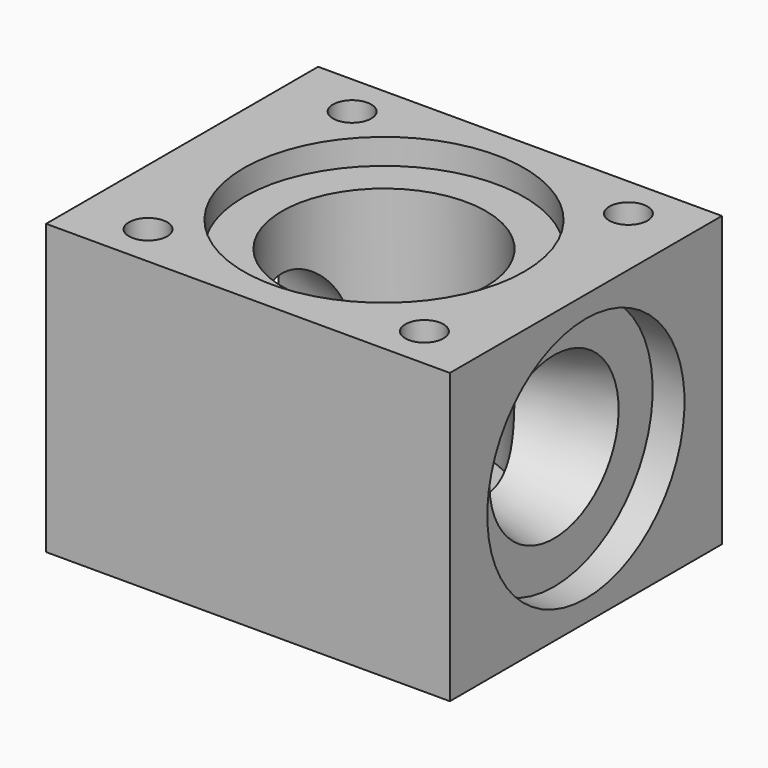
from build123d import *

# Parameters (mm, degrees)
F0_W     = 95
F0_H     = 80
F1_DEPTH = 34
F4_R     = 4.5
F5_DEPTH = 68
F4_R_2   = 24
F6_DEPTH = 57
F4_R_3   = 33
F7_DEPTH = 6


with BuildPart() as f1:
    # F0 (on Top) → F1 (new body, symmetric)
    with BuildSketch(Plane.XY):
        Rectangle(F0_W, F0_H)
    extrude(amount=F1_DEPTH, both=True)

    # F2 (on Front) → F3 (revolve, cut)
    with BuildSketch(Plane.XZ):
        Polygon((47.5, 0), (47.5, 29), (40, 29), (40, 19), (10, 11.730042), (-10, 11.730042), (-40, 19), (-40, 29), (-47.5, 29), (-47.5, 0), align=None)
    revolve(axis=Axis((-0.459014, 0, 0), (1, 0, 0)), mode=Mode.SUBTRACT)

    # F4 (on face) → F5 (cut)
    with BuildSketch(Plane.XY.offset(34)):
        with Locations((-31.5, 30)):
            Circle(F4_R)
        with Locations((33.5, 30)):
            Circle(F4_R)
        with Locations((-31.5, -30)):
            Circle(F4_R)
        with Locations((33.5, -30)):
            Circle(F4_R)
    extrude(amount=-F5_DEPTH, mode=Mode.SUBTRACT)

    # F4 (on face) → F6 (cut)
    with BuildSketch(Plane.XY.offset(34)):
        Circle(F4_R_2)
    extrude(amount=-F6_DEPTH, mode=Mode.SUBTRACT)

    # F4 (on face) → F7 (cut)
    with BuildSketch(Plane.XY.offset(34)):
        Circle(F4_R_3)
        Circle(F4_R_2, mode=Mode.SUBTRACT)
    extrude(amount=-F7_DEPTH, mode=Mode.SUBTRACT)


solid = f1.part
